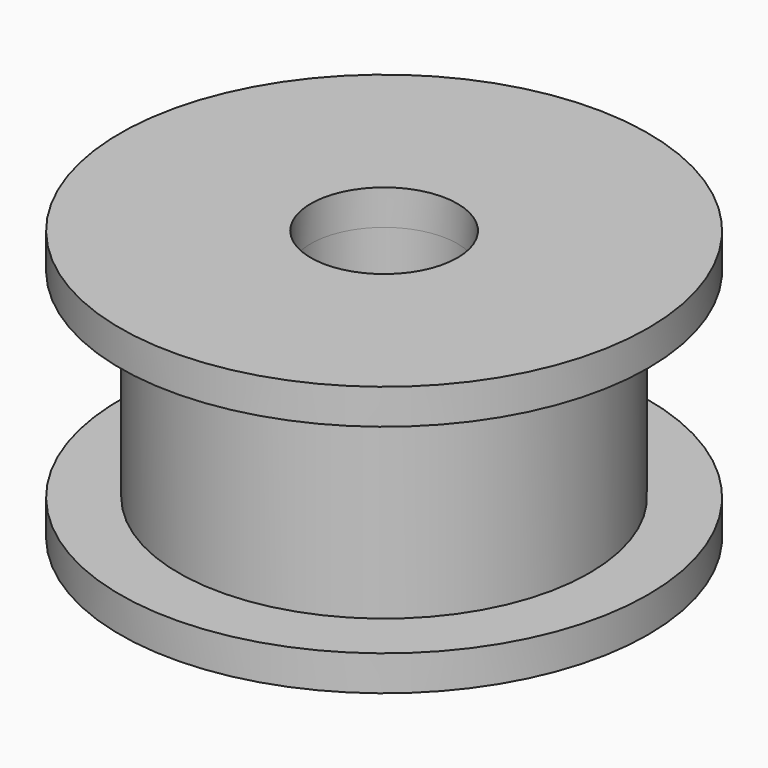
from build123d import *

# Parameters (mm, degrees)
CYLINDER003_R     = 2.5
CYLINDER003_DEPTH = 12
CYLINDER002_R     = 7
CYLINDER002_DEPTH = 9
CYLINDER001_R     = 9
CYLINDER001_DEPTH = 1.2
CYLINDER_R        = 9
CYLINDER_DEPTH    = 1.2


with BuildPart() as knock:
    # Cylinder003 → Cylinder003 (new body)
    with BuildSketch(Plane.XY):
        Circle(CYLINDER003_R)
    extrude(amount=CYLINDER003_DEPTH)


with BuildPart() as cut:
    # Cylinder002 → Cylinder002 (new body)
    with BuildSketch(Plane.XY):
        Circle(CYLINDER002_R)
    extrude(amount=CYLINDER002_DEPTH)

    # Cut: cut KNOCK
    add(knock.part, mode=Mode.SUBTRACT)


with BuildPart() as cut001:
    # Cylinder001 → Cylinder001 (new body)
    with BuildSketch(Plane.XY.offset(8)):
        Circle(CYLINDER001_R)
    extrude(amount=CYLINDER001_DEPTH)

    # Cut001: cut KNOCK
    add(knock.part, mode=Mode.SUBTRACT)


with BuildPart() as cut002:
    # Cylinder → Cylinder (new body)
    with BuildSketch(Plane.XY):
        Circle(CYLINDER_R)
    extrude(amount=CYLINDER_DEPTH)

    # Cut002: cut KNOCK
    add(knock.part, mode=Mode.SUBTRACT)


solid = Compound([cut.part, cut001.part, cut002.part])
